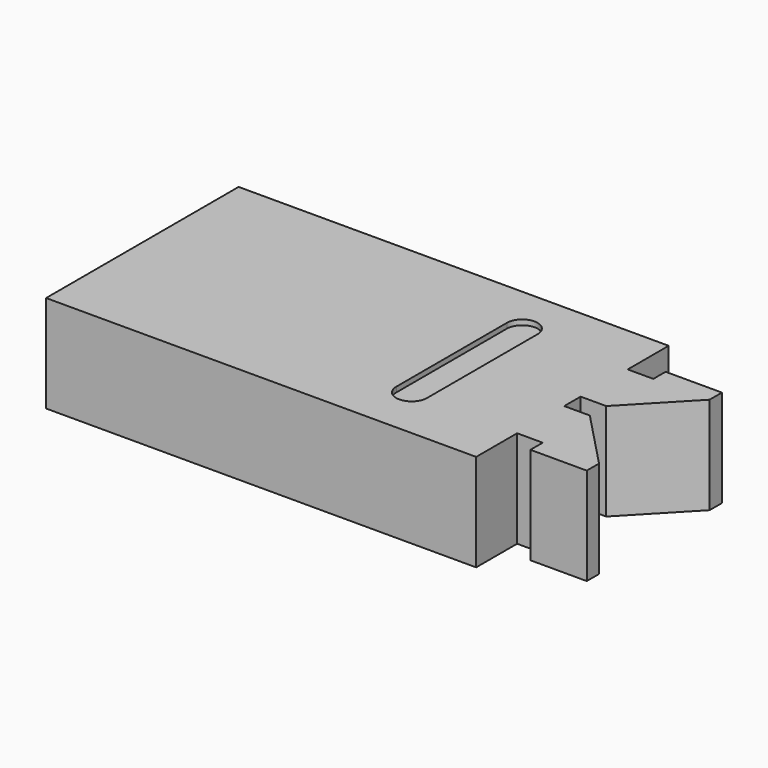
from build123d import *

# Parameters (mm, degrees)
F1_DEPTH = 19
F3_DEPTH = 1


with BuildPart() as f1:
    # F0 (on Top) → F1 (new body)
    with BuildSketch(Plane.XY):
        Polygon((0, 48), (0, 1), (84, 1), (84, 11), (89, 11), (89, 8), (100, 8), (100, 11), (89, 22.5), (84, 22.5), (84, 24.5), (84, 26.5), (89, 26.5), (100, 38), (100, 41), (89, 41), (89, 38), (84, 38), (84, 48), align=None)
    extrude(amount=F1_DEPTH)

    # F2 (on face) → F3 (cut)
    with BuildSketch(Plane.XY.offset(19)):
        with BuildLine():
            ThreePointArc((66, 38.5), (63, 41.5), (60, 38.5))
            Line((60, 38.5), (60, 11.5))
            ThreePointArc((60, 11.5), (63, 8.5), (66, 11.5))
            Line((66, 11.5), (66, 38.5))
        make_face()
    extrude(amount=-F3_DEPTH, mode=Mode.SUBTRACT)


solid = f1.part
